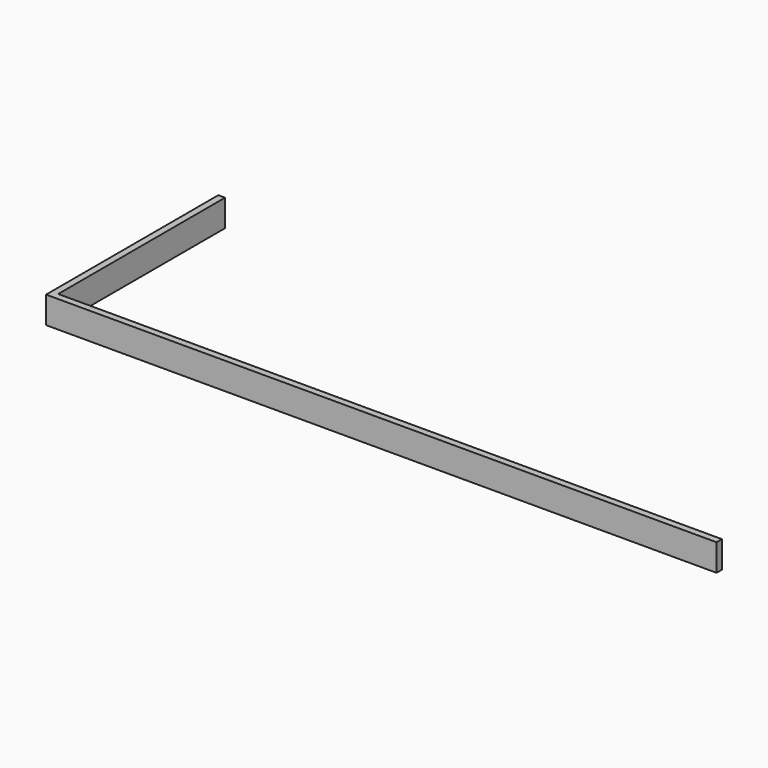
from build123d import *

# Parameters (mm, degrees)
F1_W = 19.05
F1_H = 76.2


with BuildPart() as f2:
    # F2: sweep along a path in F0
    with BuildLine(Plane.XY) as f2_path:
        Line((0, 0), (0, -590.55))
        Line((0, -590.55), (1879.6, -590.55))
    # F1 (on Front) → F2 (sweep)
    with BuildSketch(Plane.XZ):
        with Locations((-9.525, 38.1)):
            Rectangle(F1_W, F1_H)
    sweep(path=f2_path.line, transition=Transition.RIGHT)


solid = f2.part
